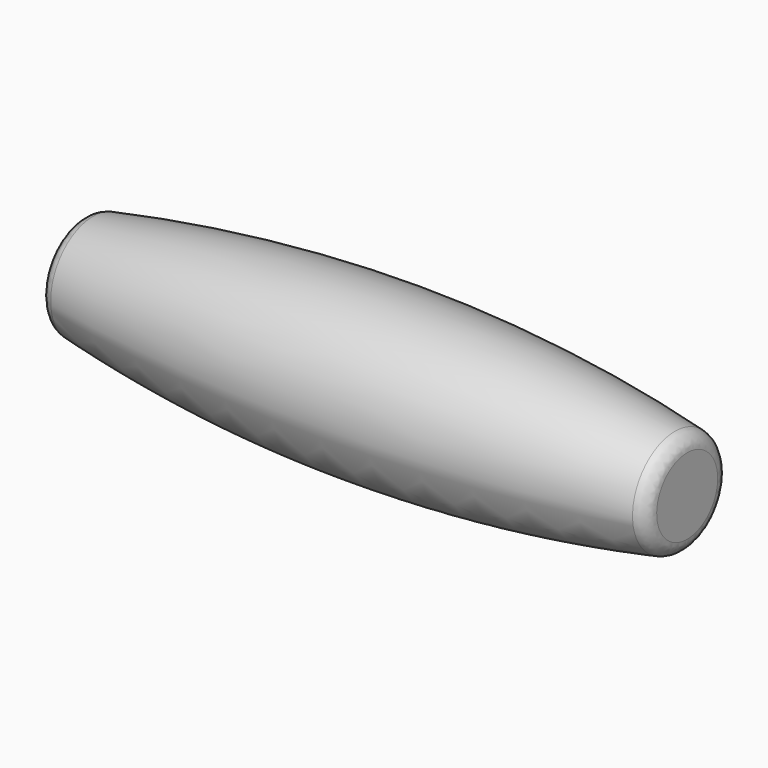
from build123d import *

# Parameters (mm, degrees)
F2_R     = 0.75
F3_DEPTH = 50
F4_R     = 3


with BuildPart() as f1:
    # F0 (on Top) → F1 (revolve)
    with BuildSketch(Plane.XY):
        with BuildLine():
            Line((60, 0), (60, 10))
            ThreePointArc((60, 10), (0, 16.061231), (-60, 10))
            Line((-60, 10), (-60, 0))
            Line((-60, 0), (60, 0))
        make_face()
    revolve(axis=Axis((0, 0, 0), (1, 0, 0)))

    # F2 (on face) → F3 (cut)
    with BuildSketch(Plane(origin=(-60, 0, 0), x_dir=(0, -1, 0), z_dir=(-1, 0, 0))):
        Circle(F2_R)
    extrude(amount=-F3_DEPTH, mode=Mode.SUBTRACT)

    # F4
    f4_edges = [f1.edges().sort_by_distance(p)[0] for p in [
        (-60, -10, 0),
        (60, -10, 0),
    ]]
    fillet(f4_edges, radius=F4_R)


solid = f1.part
